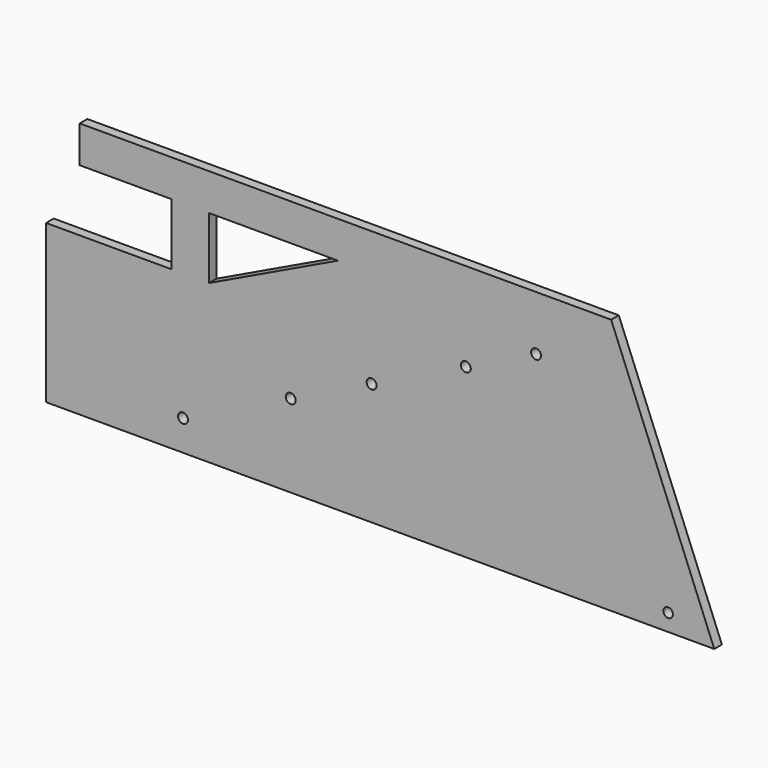
from build123d import *

# Parameters (mm, degrees)
F0_R     = 1.651
F0_R_2   = 1.5875
F1_DEPTH = 3.175


with BuildPart() as f1:
    # F0 (on Front) → F1 (new body)
    with BuildSketch(Plane.XZ):
        Polygon((75.073026, 66.702716), (-9.460143, 66.702716), (-101.428427, 66.702716), (-101.428427, 54.460585), (-71.002834, 54.460585), (-71.002834, 33.963558), (-112.609544, 33.963558), (-112.609544, -18.443778), (109.316804, -18.443778), align=None)
        with Locations((-67.156725, -8.314443)):
            Circle(F0_R, mode=Mode.SUBTRACT)
        with Locations((-31.366148, 9.040574)):
            Circle(F0_R, mode=Mode.SUBTRACT)
        with Locations((-4.488933, 22.07346)):
            Circle(F0_R, mode=Mode.SUBTRACT)
        with Locations((93.988389, -12.789856)):
            Circle(F0_R_2, mode=Mode.SUBTRACT)
        Polygon((-58.555994, 33.963558), (-58.555994, 54.460585), (-15.68356, 54.460585), align=None, mode=Mode.SUBTRACT)
        with Locations((26.799253, 37.245247)):
            Circle(F0_R, mode=Mode.SUBTRACT)
        with Locations((50.133978, 48.560364)):
            Circle(F0_R, mode=Mode.SUBTRACT)
    extrude(amount=F1_DEPTH)


solid = f1.part
